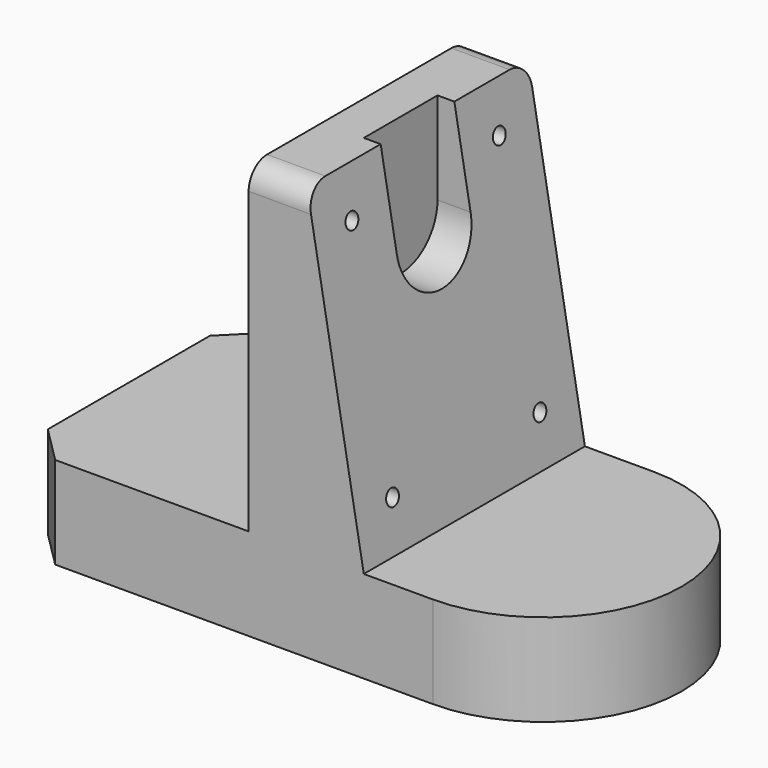
from build123d import *

# Parameters (mm, degrees)
F0_W           = 90
F0_H           = 60
F1_DEPTH       = 20
F2_SIZE        = 8
F4_DEPTH       = 60
F5_R           = 5
F7_D           = 3.4
F7_CBORE_D     = 7
F7_CBORE_DEPTH = 2.4
F9_W           = 20
F9_H           = 20
F10_DEPTH      = 8.9479207717


with BuildPart() as f1:
    # F0 (on Top) → F1 (new body)
    with BuildSketch(Plane.XY):
        with Locations((45, 30)):
            Rectangle(F0_W, F0_H)
        with BuildLine():
            Line((90, 60), (90, 0))
            ThreePointArc((90, 0), (120, 30), (90, 60))
        make_face()
    extrude(amount=F1_DEPTH)

    # F2
    f2_edges = [f1.edges().sort_by_distance(p)[0] for p in [
        (0, 0, 10),
        (0, 60, 10),
    ]]
    chamfer(f2_edges, length=F2_SIZE)

    # F3 (on Front) → F4 (join, through all)
    with BuildSketch(Plane.XZ):
        Polygon((50, 90), (50, 20), (75, 20), (62.6571113504, 90), align=None)
    extrude(amount=-F4_DEPTH)

    # F5
    f5_edges = [f1.edges().sort_by_distance(p)[0] for p in [
        (56.328556, 0, 90),
        (56.328556, 60, 90),
    ]]
    fillet(f5_edges, radius=F5_R)

    # F7 (through all)
    with Locations(Plane(origin=(50, 0, 0), x_dir=(0, -1, 0), z_dir=(-1, 0, 0))):
        with Locations((-50, 80), (-50, 30), (-10, 30), (-10, 80)):
            CounterBoreHole(F7_D / 2, F7_CBORE_D / 2, F7_CBORE_DEPTH)

    # F9 (on offset) → F10 (cut, through all)
    with BuildSketch(Plane(origin=(59, 0, 0), x_dir=(0, -1, 0), z_dir=(-1, 0, 0))):
        with Locations((-30, 80)):
            Rectangle(F9_W, F9_H)
        with BuildLine():
            ThreePointArc((-40, 70), (-30, 60), (-20, 70))
            Line((-20, 70), (-40, 70))
        make_face()
    extrude(amount=-F10_DEPTH, mode=Mode.SUBTRACT)


solid = f1.part
